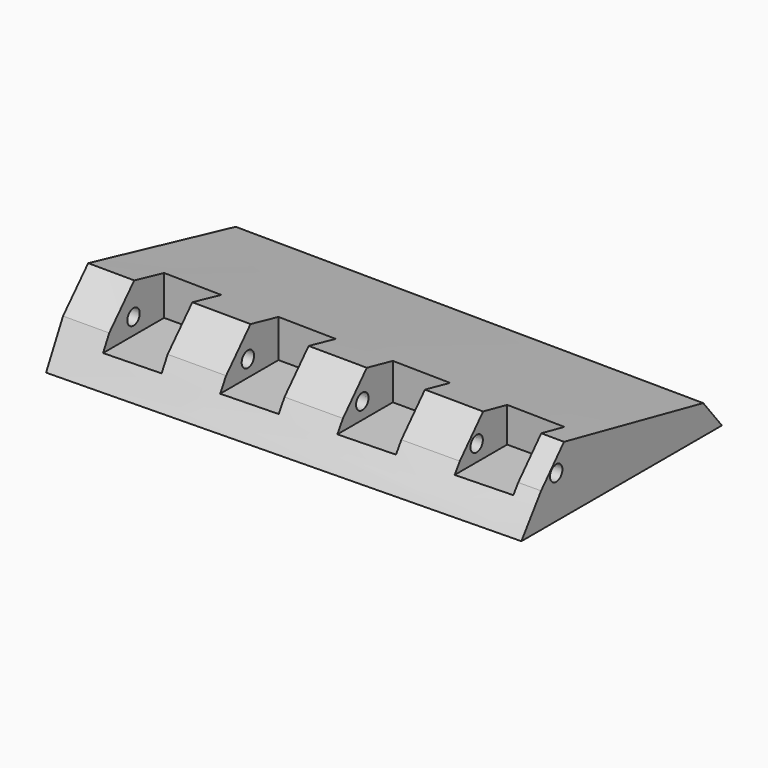
from build123d import *

# Parameters (mm, degrees)
F5_DEPTH  = 228.6
F7_W      = 27.94
F7_H      = 27.94
F8_DEPTH  = 25.4
F13_DEPTH = 609.6
F15_W     = 27.94
F15_H     = 27.94
F16_DEPTH = 25.4
F21_DEPTH = 50.8


with BuildPart() as f3:
    # F0 (on Right) → F3 section 0
    with BuildSketch(Plane.YZ):
        Polygon((-127, 0), (0, 0), (-11.19021, 15.666293), (-101.271398, 36.647938), (-116.657943, 20.142378), align=None)
    # F2 (on offset) → F3 section 1
    with BuildSketch(Plane.YZ.offset(228.6)):
        Polygon((-122.475073, 0), (0, 0), (-11.412238, 14.267517), (-96.457832, 32.171853), (-110.445596, 16.785316), align=None)
    loft()

    # F4 (on offset) → F5 (cut)
    with BuildSketch(Plane.YZ.offset(228.6)):
        with BuildLine():
            ThreePointArc((-97.416677, 20.708883), (-105.011268, 20.69831), (-97.41667, 20.701834))
            ThreePointArc((-97.41667, 20.701834), (-97.416672, 20.705359), (-97.416677, 20.708883))
        make_face()
    extrude(amount=-F5_DEPTH, mode=Mode.SUBTRACT)

    # F7 (on offset) → F8 (cut)
    with BuildSketch(Plane.XY.offset(16.9164)):
        with Locations((36.068, -96.52)):
            Rectangle(F7_W, F7_H)
        with Locations((91.948, -96.52)):
            Rectangle(F7_W, F7_H)
        with Locations((147.828, -96.52)):
            Rectangle(F7_W, F7_H)
        Polygon((203.708, -82.55), (189.738, -82.55), (189.738, -110.49), (217.678, -110.49), (217.678, -82.55), align=None)
    extrude(amount=F8_DEPTH, mode=Mode.SUBTRACT)

    # F9 (on face) + F10 (on face) + F11 (on face) + F12 (on face) → F13 (cut)
    with BuildSketch(Plane.XZ.offset(82.55)):
        Polygon((50.038, 31.635782), (22.098, 32.000567), (22.098, 16.9164), (50.038, 16.9164), align=None)
    with BuildSketch(Plane.XZ.offset(82.55)):
        Polygon((105.918, 30.898753), (77.978, 31.268528), (77.978, 16.9164), (105.918, 16.9164), align=None)
    with BuildSketch(Plane.XZ.offset(82.55)):
        Polygon((161.798, 30.151425), (133.858, 30.526404), (133.858, 16.9164), (161.798, 16.9164), align=None)
    with BuildSketch(Plane.XZ.offset(82.55)):
        Polygon((217.678, 29.393352), (189.738, 29.773761), (189.738, 16.9164), (217.678, 16.9164), align=None)
    extrude(amount=F13_DEPTH, mode=Mode.SUBTRACT)

    # F15 (on offset) → F16 (cut)
    with BuildSketch(Plane.XY.offset(12.7)):
        with Locations((36.068, -96.52)):
            Rectangle(F15_W, F15_H)
        with Locations((91.948, -96.52)):
            Rectangle(F15_W, F15_H)
        with Locations((147.828, -96.52)):
            Rectangle(F15_W, F15_H)
        with Locations((203.708, -96.52)):
            Rectangle(F15_W, F15_H)
    extrude(amount=F16_DEPTH, mode=Mode.SUBTRACT)

    # F17 (on face) + F18 (on face) + F19 (on face) + F20 (on face) → F21 (cut)
    with BuildSketch(Plane.XZ.offset(82.55)):
        Polygon((50.038, 31.635782), (22.098, 32.000567), (22.098, 12.7), (50.038, 12.7), align=None)
    with BuildSketch(Plane.XZ.offset(82.55)):
        Polygon((105.918, 30.898753), (77.978, 31.268528), (77.978, 12.7), (105.918, 12.7), align=None)
    with BuildSketch(Plane.XZ.offset(82.55)):
        Polygon((161.798, 30.151425), (133.858, 30.526404), (133.858, 12.7), (161.798, 12.7), align=None)
    with BuildSketch(Plane.XZ.offset(82.55)):
        Polygon((217.678, 29.393352), (189.738, 29.773761), (189.738, 12.7), (217.678, 12.7), align=None)
    extrude(amount=F21_DEPTH, mode=Mode.SUBTRACT)


solid = f3.part
